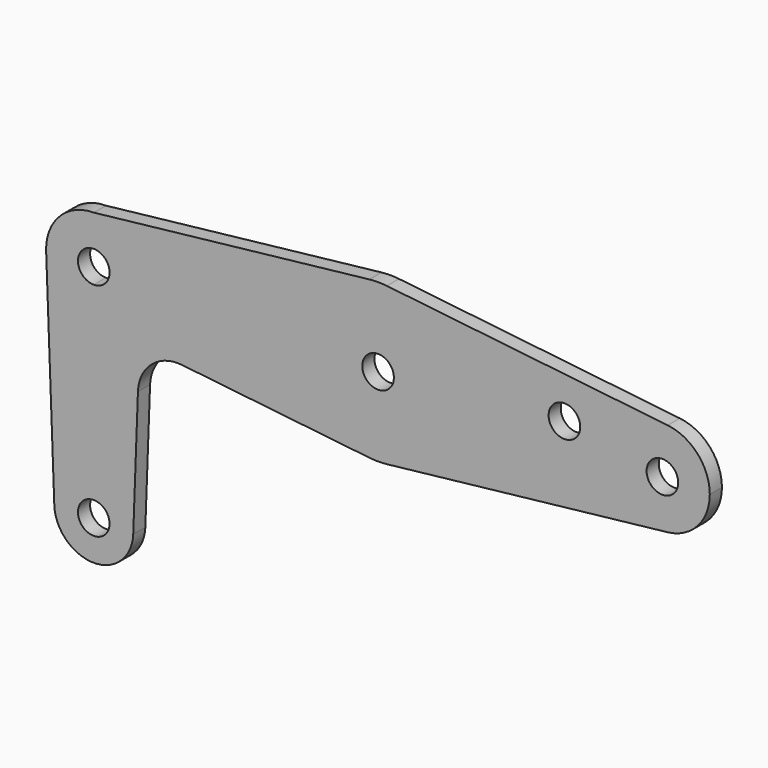
from build123d import *

# Parameters (mm, degrees)
F0_R     = 3.175
F1_DEPTH = 3.048


with BuildPart() as f1:
    # F0 (on Front) → F1 (new body)
    with BuildSketch(Plane.XZ):
        with BuildLine():
            Line((9.5843463686, 0), (3.175, 0))
            ThreePointArc((3.175, 0), (2.2450640303, -2.2450640303), (0, -3.175))
            Line((0, -3.175), (0, -9.5843463686))
            ThreePointArc((0, -9.5843463686), (6.7771563104, -6.7771563104), (9.5843463686, 0))
        make_face()
        with BuildLine():
            Line((41.275, 0), (9.5843463686, 0))
            ThreePointArc((9.5843463686, 0), (6.7771563104, -6.7771563104), (0, -9.5843463686))
            Line((0, -9.5843463686), (0, -36.5125))
            ThreePointArc((0, -36.5125), (5.6126600757, -38.8373399243), (7.9375, -44.45))
            ThreePointArc((7.9375, -44.45), (7.9361374803, -44.5970650989), (7.9320503891, -44.7440797087))
            Line((7.9320503891, -44.7440797087), (8.8787111492, -19.2103192026))
            ThreePointArc((8.8787111492, -19.2103192026), (11.6308747395, -13.4846690328), (17.6985526352, -11.6029785036))
            Line((17.6985526352, -11.6029785036), (55.4025962135, -15.7785362124))
            ThreePointArc((55.4025962135, -15.7785362124), (45.323004183, -10.5895134423), (41.275, 0))
        make_face()
        with BuildLine():
            ThreePointArc((0, 9.5843463686), (6.7771563104, 6.7771563104), (9.5843463686, 0))
            Line((9.5843463686, 0), (41.275, 0))
            ThreePointArc((41.275, 0), (45.3174736191, 10.5833333333), (55.3861111111, 15.7767018412))
            Line((55.3861111111, 15.7767018412), (0, 9.5843463686))
        make_face()
        with BuildLine():
            ThreePointArc((0, -3.175), (-2.2450640303, 2.2450640303), (3.175, 0))
            Line((3.175, 0), (9.5843463686, 0))
            ThreePointArc((9.5843463686, 0), (6.7771563104, 6.7771563104), (0, 9.5843463686))
            ThreePointArc((0, 9.5843463686), (-6.7771563104, 6.7771563104), (-9.5843463686, 0))
            Line((-9.5843463686, 0), (-9.5582424829, -0.7068917533))
            ThreePointArc((-9.5582424829, -0.7068917533), (-6.5224458566, -7.0226345028), (0, -9.5843463686))
            Line((0, -9.5843463686), (0, -3.175))
        make_face()
        with BuildLine():
            Line((53.975, 0), (41.275, 0))
            ThreePointArc((41.275, 0), (45.323004183, -10.5895134423), (55.4025962135, -15.7785362124))
            ThreePointArc((55.4025962135, -15.7785362124), (57.1582934239, -15.8749978337), (58.9138888889, -15.7767018412))
            ThreePointArc((58.9138888889, -15.7767018412), (68.9825263809, -10.5833333333), (73.025, 0))
            Line((73.025, 0), (60.325, 0))
            ThreePointArc((60.325, 0), (57.15, -3.175), (53.975, 0))
        make_face()
        with BuildLine():
            ThreePointArc((55.3861111111, 15.7767018412), (45.3174736191, 10.5833333333), (41.275, 0))
            Line((41.275, 0), (53.975, 0))
            ThreePointArc((53.975, 0), (57.15, 3.175), (60.325, 0))
            Line((60.325, 0), (73.025, 0))
            ThreePointArc((73.025, 0), (68.9825263809, 10.5833333333), (58.9138888889, 15.7767018412))
            ThreePointArc((58.9138888889, 15.7767018412), (57.15, 15.875), (55.3861111111, 15.7767018412))
        make_face()
        with BuildLine():
            ThreePointArc((73.025, 0), (68.9825263809, -10.5833333333), (58.9138888889, -15.7767018412))
            Line((58.9138888889, -15.7767018412), (115.3583333333, -9.4660211047))
            ThreePointArc((115.3583333333, -9.4660211047), (107.95, -7.0995158286), (104.775, 0))
            Line((104.775, 0), (73.025, 0))
        make_face()
        with BuildLine():
            Line((115.3583333333, 9.4660211047), (58.9138888889, 15.7767018412))
            ThreePointArc((58.9138888889, 15.7767018412), (68.9825263809, 10.5833333333), (73.025, 0))
            Line((73.025, 0), (104.775, 0))
            ThreePointArc((104.775, 0), (107.95, 7.0995158286), (115.3583333333, 9.4660211047))
        make_face()
        with Locations((94.6064814925, 3.4439631272)):
            Circle(F0_R, mode=Mode.SUBTRACT)
        with BuildLine():
            ThreePointArc((123.825, 0), (121.3995158286, 6.35), (115.3583333333, 9.4660211047))
            ThreePointArc((115.3583333333, 9.4660211047), (107.95, 7.0995158286), (104.775, 0))
            ThreePointArc((104.775, 0), (107.95, -7.0995158286), (115.3583333333, -9.4660211047))
            ThreePointArc((115.3583333333, -9.4660211047), (121.3995158286, -6.35), (123.825, 0))
        make_face()
        with BuildLine():
            ThreePointArc((117.475, 0), (114.3, -3.175), (111.125, 0))
            ThreePointArc((111.125, 0), (114.3, 3.175), (117.475, 0))
        make_face(mode=Mode.SUBTRACT)
        with BuildLine():
            Line((0, -36.5125), (0, -9.5843463686))
            ThreePointArc((0, -9.5843463686), (-6.5224458566, -7.0226345028), (-9.5582424829, -0.7068917533))
            Line((-9.5582424829, -0.7068917533), (-7.9320504749, -44.7440797087))
            ThreePointArc((-7.9320503892, -44.7440797055), (-5.7156873564, -38.9422940988), (0, -36.5125))
        make_face()
        with BuildLine():
            ThreePointArc((7.9375, -44.45), (5.6126600757, -38.8373399243), (0, -36.5125))
            ThreePointArc((0, -36.5125), (-5.7156873564, -38.9422940988), (-7.9320503892, -44.7440797055))
            ThreePointArc((-7.9320503892, -44.7440797055), (-1.6e-09, -52.3875), (7.9320503891, -44.7440797087))
            ThreePointArc((7.9320503891, -44.7440797087), (7.9361374803, -44.5970650989), (7.9375, -44.45))
        make_face()
        with BuildLine():
            ThreePointArc((3.175, -44.45), (-2.2450640303, -46.6950640303), (0, -41.275))
            ThreePointArc((0, -41.275), (2.2450640303, -42.2049359697), (3.175, -44.45))
        make_face(mode=Mode.SUBTRACT)
    extrude(amount=F1_DEPTH)


solid = f1.part
